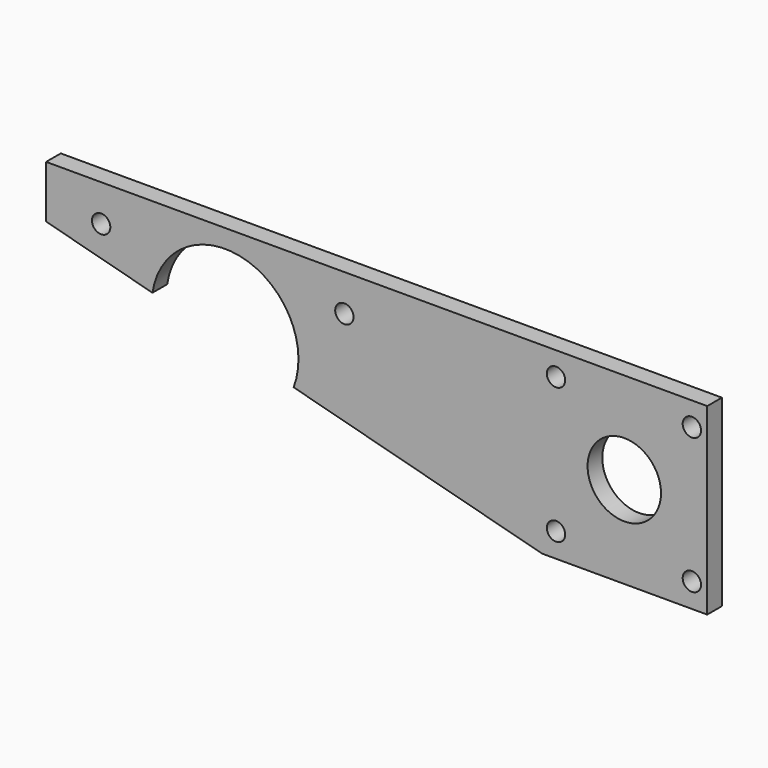
from build123d import *

# Parameters (mm, degrees)
F0_R     = 3.175
F0_R_2   = 12.7
F1_DEPTH = 6.35


with BuildPart() as f1:
    # F0 (on Front) → F1 (new body)
    with BuildSketch(Plane.XZ):
        with BuildLine():
            Line((166.786918, 31.75), (-61.8998, 31.75))
            Line((-61.8998, 31.75), (-61.8998, 13.569227))
            Line((-61.8998, 13.569227), (-25.106728, 3.848664))
            ThreePointArc((-25.106728, 3.848664), (6.487957, 24.557411), (23.731458, -9.054165))
            Line((23.731458, -9.054165), (109.636918, -31.75))
            Line((109.636918, -31.75), (166.786918, -31.75))
            Line((166.786918, -31.75), (166.786918, 31.75))
        make_face()
        with Locations((114.4778, -23.368)):
            Circle(F0_R, mode=Mode.SUBTRACT)
        with Locations((161.4678, -23.368)):
            Circle(F0_R, mode=Mode.SUBTRACT)
        with Locations((-42.8498, 19.05)):
            Circle(F0_R, mode=Mode.SUBTRACT)
        with Locations((41.275, 19.05)):
            Circle(F0_R, mode=Mode.SUBTRACT)
        with Locations((138.0998, 0)):
            Circle(F0_R_2, mode=Mode.SUBTRACT)
        with Locations((114.4778, 23.622)):
            Circle(F0_R, mode=Mode.SUBTRACT)
        with Locations((161.4678, 23.622)):
            Circle(F0_R, mode=Mode.SUBTRACT)
    extrude(amount=F1_DEPTH)


solid = f1.part
